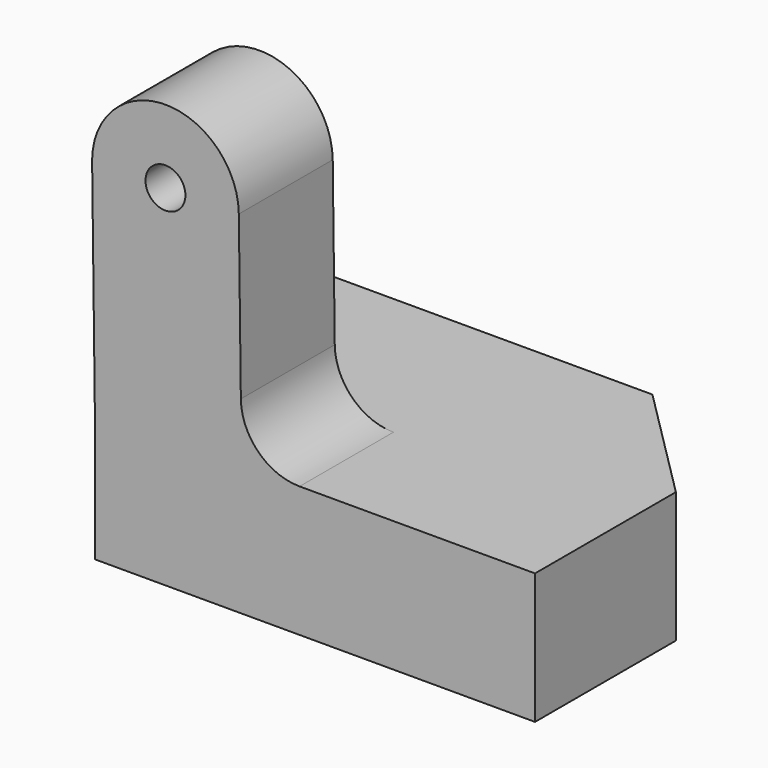
from build123d import *

# Parameters (mm, degrees)
F1_DEPTH       = 25.4
F2_DEPTH       = 15.24
F3_D           = 3.4544
F3_START       = 15.24
F3_CSINK_D     = 9.1186
F3_CSINK_ANGLE = 82
F4_R           = 5.08
F5_SIZE        = 10.16


with BuildPart() as f1:
    # F0 (on Front) → F1 (new body)
    with BuildSketch(Plane.XZ):
        Polygon((19.05, -5.6587588522), (19.05, 5.6587588522), (-6.35, 5.6587588522), (-19.05, 5.6587588522), (-19.05, -5.6587588522), align=None)
        with BuildLine():
            Line((-19.05, 5.6587588522), (-6.35, 5.6587588522))
            Line((-6.35, 5.6587588522), (-6.5872897774, 24.7072809356))
            ThreePointArc((-6.5872897774, 24.7072809356), (-12.9367971385, 30.9781843431), (-19.2863044996, 24.7072809356))
            Line((-19.2863044996, 24.7072809356), (-19.05, 5.6587588522))
        make_face()
    extrude(amount=F1_DEPTH)

    # F0 (on Front) → F2 (cut)
    with BuildSketch(Plane.XZ):
        with BuildLine():
            Line((-19.05, 5.6587588522), (-6.35, 5.6587588522))
            Line((-6.35, 5.6587588522), (-6.5872897774, 24.7072809356))
            ThreePointArc((-6.5872897774, 24.7072809356), (-12.9367971385, 30.9781843431), (-19.2863044996, 24.7072809356))
            Line((-19.2863044996, 24.7072809356), (-19.05, 5.6587588522))
        make_face()
    extrude(amount=F2_DEPTH, mode=Mode.SUBTRACT)

    # F3 (through all)
    # its depths count from where the whole tool has entered the part; down to there all is cleared
    with Locations(Plane(origin=(0, 0, 0), x_dir=(1, 0, 0), z_dir=(0, 1, 0)).offset(-F3_START)):
        with Locations((-12.9367971385, -24.6281843431)):
            CounterSinkHole(F3_D / 2, F3_CSINK_D / 2, counter_sink_angle=F3_CSINK_ANGLE)

    # F4
    f4_edges = [f1.edges().sort_by_distance(p)[0] for p in [
        (-6.35, -20.32, 5.658759),
    ]]
    fillet(f4_edges, radius=F4_R)

    # F5
    f5_edges = [f1.edges().sort_by_distance(p)[0] for p in [
        (19.05, 0, 0),
    ]]
    chamfer(f5_edges, length=F5_SIZE)


solid = f1.part
